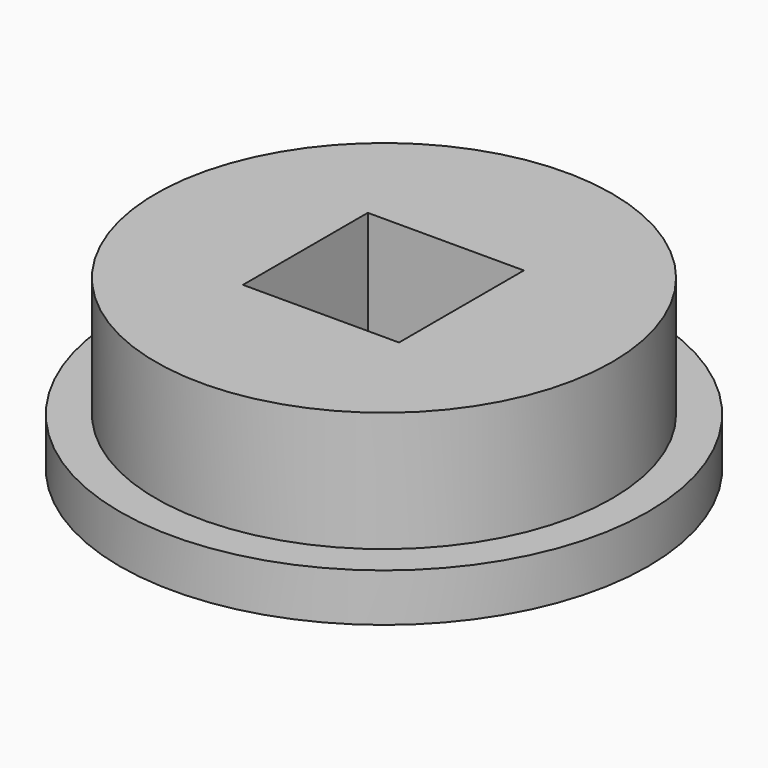
from build123d import *

# Parameters (mm, degrees)
F0_R     = 11
F0_R_2   = 9.5
F0_W     = 6.5
F0_H     = 6.5
F1_DEPTH = 2
F2_DEPTH = 5


with BuildPart() as f1:
    # F0 (on Top) → F1 (new body)
    with BuildSketch(Plane.XY):
        Circle(F0_R)
        Circle(F0_R_2, mode=Mode.SUBTRACT)
        Circle(F0_R_2)
        with Locations((-0.025, 0)):
            Rectangle(F0_W, F0_H, mode=Mode.SUBTRACT)
    extrude(amount=-F1_DEPTH)

    # F0 (on Top) → F2 (join)
    with BuildSketch(Plane.XY):
        Circle(F0_R_2)
        with Locations((-0.025, 0)):
            Rectangle(F0_W, F0_H, mode=Mode.SUBTRACT)
    extrude(amount=F2_DEPTH)


solid = f1.part
